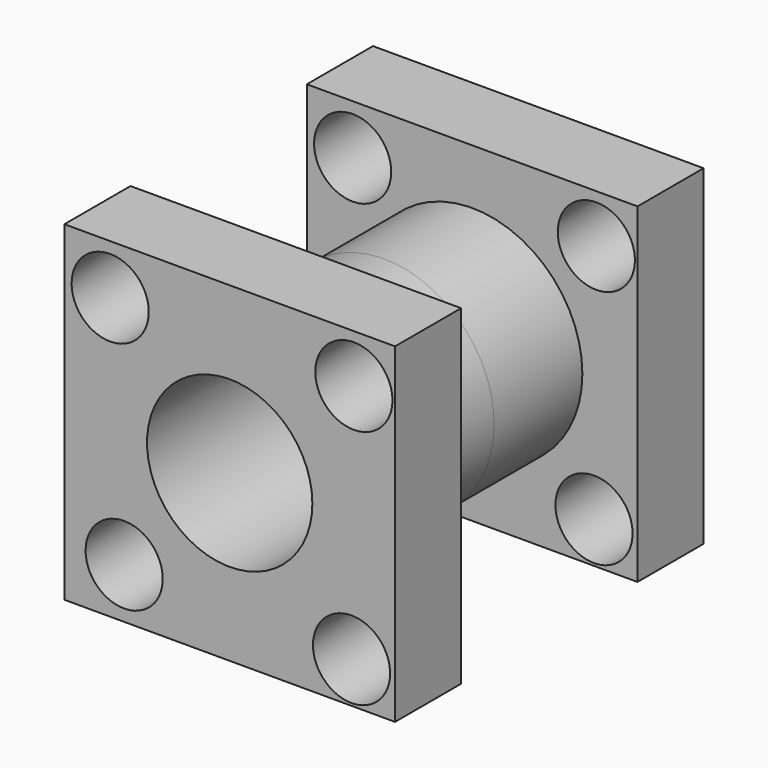
from build123d import *

# Parameters (mm, degrees)
F0_W     = 76.2
F0_H     = 76.2
F1_DEPTH = 19.05
F2_R     = 25.4
F3_DEPTH = 25.4
F6_D     = 38.1
F6_2_D   = 38.1
F8_D     = 17.78
F8_2_D   = 17.78
F10_D    = 17.78
F10_2_D  = 17.78
F12_D    = 17.78
F12_2_D  = 17.78
F14_D    = 17.78
F14_2_D  = 17.78


with BuildPart() as f1:
    # F0 (on Front) → F1 (new body)
    with BuildSketch(Plane.XZ):
        Rectangle(F0_W, F0_H)
    extrude(amount=F1_DEPTH)


with BuildPart() as f3:
    # F2 (on face) → F3 (new body)
    with BuildSketch(Plane.XZ.offset(19.05)):
        Circle(F2_R)
    extrude(amount=F3_DEPTH)



with BuildPart() as f3_1:
    add(f3.part)
    # F5: F1, F3 across face
    add(f1.part.mirror(Plane.XZ.offset(44.45)))
    add(f3.part.mirror(Plane.XZ.offset(44.45)))

    # F6#2 (through all)
    with Locations(Plane(origin=(0, 0, 0), x_dir=(-1, 0, 0), z_dir=(0, 1, 0))):
        with Locations((0, 0)):
            Hole(F6_2_D / 2)

    # F8#2 (through all)
    with Locations(Plane.XZ.offset(88.9)):
        with Locations((28.0823782086, -28.6378357559)):
            Hole(F8_2_D / 2)

    # F10#2 (through all)
    with Locations(Plane.XZ.offset(88.9)):
        with Locations((-24.3268366903, -26.5121720731)):
            Hole(F10_2_D / 2)

    # F12#2 (through all)
    with Locations(Plane.XZ.offset(88.9)):
        with Locations((28.6120604724, 26.9607454538)):
            Hole(F12_2_D / 2)

    # F14#2 (through all)
    with Locations(Plane.XZ.offset(88.9)):
        with Locations((-27.5462884456, 26.6157463193)):
            Hole(F14_2_D / 2)


with BuildPart() as f1_1:
    add(f1.part)

    # F6 (through all)
    with Locations(Plane(origin=(0, 0, 0), x_dir=(-1, 0, 0), z_dir=(0, 1, 0))):
        with Locations((0, 0)):
            Hole(F6_D / 2)

    # F8 (through all)
    with Locations(Plane.XZ.offset(88.9)):
        with Locations((28.0823782086, -28.6378357559)):
            Hole(F8_D / 2)

    # F10 (through all)
    with Locations(Plane.XZ.offset(88.9)):
        with Locations((-24.3268366903, -26.5121720731)):
            Hole(F10_D / 2)

    # F12 (through all)
    with Locations(Plane.XZ.offset(88.9)):
        with Locations((28.6120604724, 26.9607454538)):
            Hole(F12_D / 2)

    # F14 (through all)
    with Locations(Plane.XZ.offset(88.9)):
        with Locations((-27.5462884456, 26.6157463193)):
            Hole(F14_D / 2)


solid = Compound([f3_1.part, f1_1.part])
